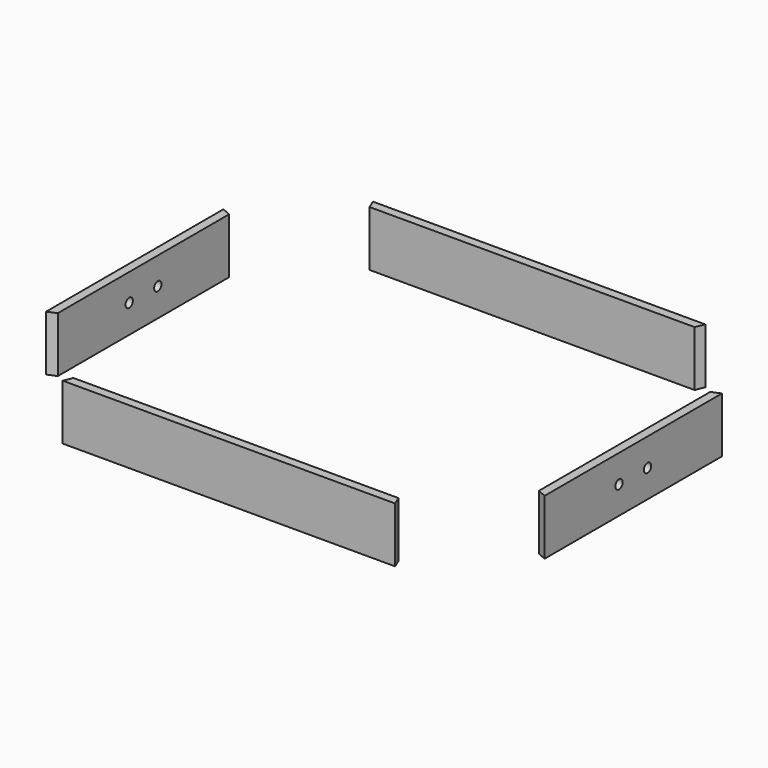
from build123d import *

# Parameters (mm, degrees)
F1_DEPTH = 40
F2_DEPTH = 40
F3_DEPTH = 40
F4_DEPTH = 40
F6_D     = 6.6
F8_D     = 6.6


with BuildPart() as f1:
    # F0 (on Top) → F1 (new body)
    with BuildSketch(Plane.XY):
        Polygon((120, 280), (-120, 280), (-117.3697438789, 273.65), (117.3697438789, 273.65), align=None)
    extrude(amount=F1_DEPTH)


with BuildPart() as f2:
    # F0 (on Top) → F2 (new body)
    with BuildSketch(Plane.XY):
        Polygon((-180, 220), (-180, 60), (-173.65, 62.6302561211), (-173.65, 217.3697438789), align=None)
    extrude(amount=F2_DEPTH)

    # F6 (through all)
    with Locations(Plane.YZ.offset(-173.65)):
        with Locations((127.105, 20.425), (152.895, 20.425)):
            Hole(F6_D / 2)


with BuildPart() as f3:
    # F0 (on Top) → F3 (new body)
    with BuildSketch(Plane.XY):
        Polygon((173.65, 62.6302561211), (180, 60), (180, 220), (173.65, 217.3697438789), align=None)
    extrude(amount=F3_DEPTH)

    # F8 (through all)
    with Locations(Plane(origin=(173.65, 0, 0), x_dir=(0, -1, 0), z_dir=(-1, 0, 0))):
        with Locations((-127.105, 20), (-152.895, 20)):
            Hole(F8_D / 2)


with BuildPart() as f4:
    # F0 (on Top) → F4 (new body)
    with BuildSketch(Plane.XY):
        Polygon((-117.3697438789, 6.35), (-120, 0), (120, 0), (117.3697438789, 6.35), align=None)
    extrude(amount=F4_DEPTH)


solid = Compound([f1.part, f2.part, f3.part, f4.part])
